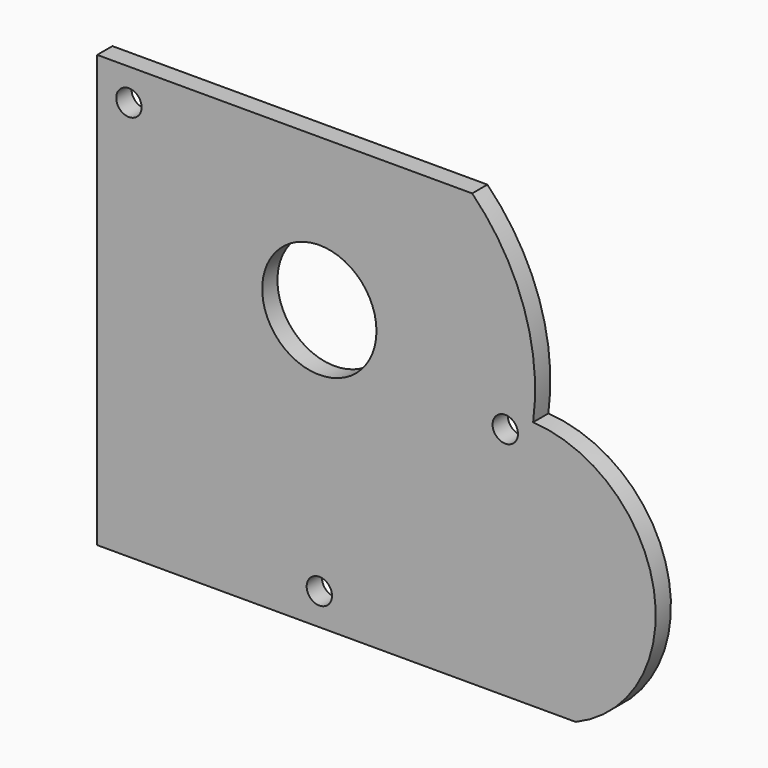
from build123d import *

# Parameters (mm, degrees)
F0_R     = 2
F0_R_2   = 9
F1_DEPTH = 3


with BuildPart() as f1:
    # F0 (on Front) → F1 (new body)
    with BuildSketch(Plane.XZ):
        with BuildLine():
            Line((24.083189, 36.600841), (-35, 36.600841))
            Line((-35, 36.600841), (-35, -31.399159))
            Line((-35, -31.399159), (40.402617, -31.399159))
            ThreePointArc((40.402617, -31.399159), (52.708094, -9.03643), (33.684827, 7.982139))
            ThreePointArc((33.684827, 7.982139), (32.234197, 23.415486), (24.083189, 36.600841))
        make_face()
        with Locations((0, -26.399159)):
            Circle(F0_R, mode=Mode.SUBTRACT)
        with Locations((0, 12.600841)):
            Circle(F0_R_2, mode=Mode.SUBTRACT)
        with Locations((-30, 31.600841)):
            Circle(F0_R, mode=Mode.SUBTRACT)
        with Locations((29.29596, 5.58676)):
            Circle(F0_R, mode=Mode.SUBTRACT)
    extrude(amount=F1_DEPTH)


solid = f1.part
